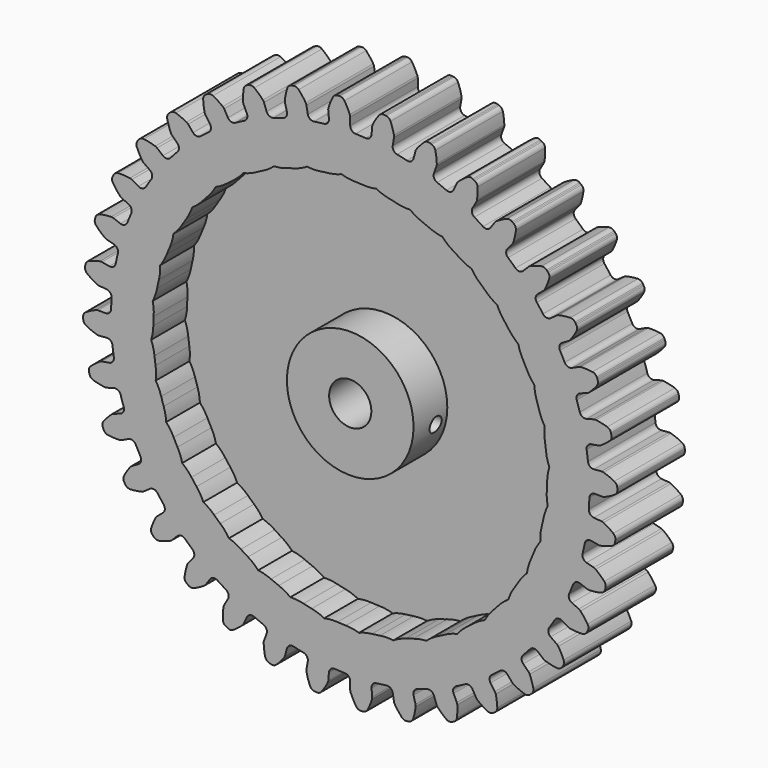
from build123d import *

# Parameters (mm, degrees)
F1_DEPTH = 12.7
F2_R     = 3.175
F3_DEPTH = 12.701
F4_T     = -6.35
F6_R     = 1.1303
F7_DEPTH = 8.255


with BuildPart() as f1:
    # F0 (on Front) → F1 (new body)
    with BuildSketch(Plane.XZ):
        with BuildLine():
            ThreePointArc((-3.2072943404, 36.659542061), (-3.3913727286, 36.0640986116), (-3.9392813158, 35.7670566373))
            ThreePointArc((-3.9392813158, 35.7670566373), (-4.6967674834, 35.6754909284), (-5.452141885, 35.5678847648))
            ThreePointArc((-5.452141885, 35.5678847648), (-6.05826106, 35.712996102), (-6.3901792342, 36.2405073152))
            Line((-6.3901792342, 36.2405073152), (-6.5887563202, 37.3666939325))
            ThreePointArc((-6.5887563202, 37.3666939325), (-6.631104961, 37.519337619), (-6.7018302996, 37.6610818565))
            ThreePointArc((-6.7018302996, 37.6610818565), (-7.1997392291, 38.3812881092), (-7.7616778289, 39.0527308532))
            ThreePointArc((-7.7616778289, 39.0527308532), (-8.1157636955, 39.2798560222), (-8.5357954873, 39.3030063397))
            Line((-8.5357954873, 39.3030063397), (-8.7055375371, 39.2681421975))
            Line((-8.7055375371, 39.2681421975), (-8.8741103018, 39.228003751))
            ThreePointArc((-8.8741103018, 39.228003751), (-9.2450046386, 39.0295093323), (-9.4699281726, 38.6740208695))
            ThreePointArc((-9.4699281726, 38.6740208695), (-9.6954535361, 37.8280015678), (-9.8423399615, 36.9648476265))
            ThreePointArc((-9.8423399615, 36.9648476265), (-9.8465351834, 36.8064939006), (-9.8204060769, 36.65025443))
            Line((-9.8204060769, 36.65025443), (-9.5244310056, 35.5456604261))
            ThreePointArc((-9.5244310056, 35.5456604261), (-9.6023151596, 34.927298224), (-10.0903189867, 34.539625657))
            ThreePointArc((-10.0903189867, 34.539625657), (-10.8203970188, 34.3179149444), (-11.5456099717, 34.0807741719))
            ThreePointArc((-11.5456099717, 34.0807741719), (-12.1677191538, 34.1184294516), (-12.586196106, 34.5802895981))
            Line((-12.586196106, 34.5802895981), (-12.9773166137, 35.6548843611))
            ThreePointArc((-12.9773166137, 35.6548843611), (-13.0455281814, 35.7978552827), (-13.1397926718, 35.9251647806))
            ThreePointArc((-13.1397926718, 35.9251647806), (-13.7551997492, 36.5479685037), (-14.4251960478, 37.1116309099))
            ThreePointArc((-14.4251960478, 37.1116309099), (-14.8133424262, 37.2738191717), (-15.2310130017, 37.2236800287))
            Line((-15.2310130017, 37.2236800287), (-15.3921221936, 37.1598701535))
            Line((-15.3921221936, 37.1598701535), (-15.5511639912, 37.0910691469))
            ThreePointArc((-15.5511639912, 37.0910691469), (-15.8819554155, 36.8311851787), (-16.0417319319, 36.4420398226))
            ThreePointArc((-16.0417319319, 36.4420398226), (-16.1169213484, 35.5697113868), (-16.11169113, 34.6941641332))
            ThreePointArc((-16.11169113, 34.6941641332), (-16.0883247811, 34.5374876636), (-16.0354619351, 34.3881590933))
            Line((-16.0354619351, 34.3881590933), (-15.5521726543, 33.3517418862))
            ThreePointArc((-15.5521726543, 33.3517418862), (-15.5214961034, 32.7292495539), (-15.9347674211, 32.262725629))
            ThreePointArc((-15.9347674211, 32.262725629), (-16.6152542662, 31.9176064805), (-17.2882705419, 31.5581365015))
            ThreePointArc((-17.2882705419, 31.5581365015), (-17.9074672583, 31.4871915871), (-18.3997877781, 31.8693672801))
            Line((-18.3997877781, 31.8693672801), (-18.9715677086, 32.8597191706))
            ThreePointArc((-18.9715677086, 32.8597191706), (-19.0635696294, 32.9886732282), (-19.1785090927, 33.0976797518))
            ThreePointArc((-19.1785090927, 33.0976797518), (-19.8927154853, 33.6041573694), (-20.6504119844, 34.0429128408))
            ThreePointArc((-20.6504119844, 34.0429128408), (-21.0608252432, 34.1352361872), (-21.4634438933, 34.0133310361))
            Line((-21.4634438933, 34.0133310361), (-21.6110250061, 33.9225142588))
            Line((-21.6110250061, 33.9225142588), (-21.7557034319, 33.8271411757))
            ThreePointArc((-21.7557034319, 33.8271411757), (-22.0363410137, 33.5137641009), (-22.126115784, 33.1027858363))
            ThreePointArc((-22.126115784, 33.1027858363), (-22.048684661, 32.2306535243), (-21.8914967163, 31.3693160188))
            ThreePointArc((-21.8914967163, 31.3693160188), (-21.8412787714, 31.2190773407), (-21.7632883966, 31.0811969438))
            Line((-21.7632883966, 31.0811969438), (-21.1073694067, 30.1444475458))
            ThreePointArc((-21.1073694067, 30.1444475458), (-20.9690642425, 29.5367391979), (-21.2950460108, 29.0055390085))
            ThreePointArc((-21.2950460108, 29.0055390085), (-21.9052654205, 28.5474976948), (-22.5056357599, 28.0766208227))
            ThreePointArc((-22.5056357599, 28.0766208227), (-23.1031060317, 27.8992313396), (-23.6543112092, 28.1901103639))
            Line((-23.6543112092, 28.1901103639), (-24.3893773189, 29.0661280409))
            ThreePointArc((-24.3893773189, 29.0661280409), (-24.5023741609, 29.1771470308), (-24.6344962196, 29.2645384719))
            ThreePointArc((-24.6344962196, 29.2645384719), (-25.4258011276, 29.639300918), (-26.2481756024, 29.9398180916))
            ThreePointArc((-26.2481756024, 29.9398180916), (-26.6683855425, 29.9594713245), (-27.0437189033, 29.7695041916))
            Line((-27.0437189033, 29.7695041916), (-27.1732877594, 29.6544399339))
            Line((-27.1732877594, 29.6544399339), (-27.2992068328, 29.5353926372))
            ThreePointArc((-27.2992068328, 29.5353926372), (-27.5211635412, 29.1780442597), (-27.5382088043, 28.7577204532))
            ThreePointArc((-27.5382088043, 28.7577204532), (-27.3105098474, 27.9122835641), (-27.0061402526, 27.0913271108))
            ThreePointArc((-27.0061402526, 27.0913271108), (-26.9305965584, 26.9520911504), (-26.8298483531, 26.8298483531))
            Line((-26.8298483531, 26.8298483531), (-26.0212294205, 26.0212294205))
            ThreePointArc((-26.0212294205, 26.0212294205), (-25.7794979753, 25.4467699677), (-26.0082854033, 24.8670337628))
            ThreePointArc((-26.0082854033, 24.8670337628), (-26.5296961696, 24.3099876374), (-27.0391786237, 23.7420112277))
            ThreePointArc((-27.0391786237, 23.7420112277), (-27.5967686191, 23.4635670654), (-28.1901103639, 23.6543112092))
            Line((-28.1901103639, 23.6543112092), (-29.0661280409, 24.3893773189))
            ThreePointArc((-29.0661280409, 24.3893773189), (-29.1966864522, 24.4790879851), (-29.3419766445, 24.5422089992))
            ThreePointArc((-29.3419766445, 24.5422089992), (-30.1863366687, 24.7738693063), (-31.0484016869, 24.9270171199))
            ThreePointArc((-31.0484016869, 24.9270171199), (-31.4656404419, 24.8734030857), (-31.8022841992, 24.6211460263))
            Line((-31.8022841992, 24.6211460263), (-31.9099039146, 24.4853304575))
            Line((-31.9099039146, 24.4853304575), (-32.0132376482, 24.3462261391))
            ThreePointArc((-32.0132376482, 24.3462261391), (-32.1697694409, 23.9557643085), (-32.1135672851, 23.5388662862))
            ThreePointArc((-32.1135672851, 23.5388662862), (-31.7425190119, 22.745812992), (-31.3002158831, 21.9901819374))
            ThreePointArc((-31.3002158831, 21.9901819374), (-31.2016417966, 21.866179309), (-31.0811969438, 21.7632883966))
            Line((-31.0811969438, 21.7632883966), (-30.1444475458, 21.1073694067))
            ThreePointArc((-30.1444475458, 21.1073694067), (-29.8066347073, 20.5836135088), (-29.9312762046, 19.9729562795))
            ThreePointArc((-29.9312762046, 19.9729562795), (-30.3480355252, 19.333830907), (-30.7511497275, 18.6860126355))
            ThreePointArc((-30.7511497275, 18.6860126355), (-31.2519173567, 18.3149741791), (-31.8693672801, 18.3997877781))
            Line((-31.8693672801, 18.3997877781), (-32.8597191706, 18.9715677087))
            ThreePointArc((-32.8597191706, 18.9715677087), (-33.0038722, 19.0372442381), (-33.1579159569, 19.074176925))
            ThreePointArc((-33.1579159569, 19.074176925), (-34.0296756452, 19.155696212), (-34.9052377975, 19.1568213468))
            ThreePointArc((-34.9052377975, 19.1568213468), (-35.3068277789, 19.0315690807), (-35.5945531824, 18.7246867979))
            Line((-35.5945531824, 18.7246867979), (-35.6769537865, 18.5722466053))
            Line((-35.6769537865, 18.5722466053), (-35.7545624371, 18.4173118796))
            ThreePointArc((-35.7545624371, 18.4173118796), (-35.8409131748, 18.0056005809), (-35.7131712741, 17.6047955783))
            ThreePointArc((-35.7131712741, 17.6047955783), (-35.2100477986, 16.8882224022), (-34.6432502926, 16.2208762135))
            ThreePointArc((-34.6432502926, 16.2208762135), (-34.5246409375, 16.1158746741), (-34.3881590933, 16.0354619351))
            Line((-34.3881590933, 16.0354619351), (-33.3517418862, 15.5521726543))
            ThreePointArc((-33.3517418862, 15.5521726543), (-32.9281119265, 15.0950343691), (-32.9448203244, 14.4720106265))
            ThreePointArc((-32.9448203244, 14.4720106265), (-33.2442651782, 13.7702255079), (-33.5287627077, 13.062249005))
            ThreePointArc((-33.5287627077, 13.062249005), (-33.9574923996, 12.6098900703), (-34.5802895981, 12.586196106))
            Line((-34.5802895981, 12.586196106), (-35.6548843611, 12.9773166137))
            ThreePointArc((-35.6548843611, 12.9773166137), (-35.8082519917, 13.0169634582), (-35.9663687716, 13.0265856369))
            ThreePointArc((-35.9663687716, 13.0265856369), (-36.8390401471, 12.9554869816), (-37.7014959204, 12.8045552508))
            ThreePointArc((-37.7014959204, 12.8045552508), (-38.0752350199, 12.6114704797), (-38.3052996789, 12.2592874363))
            Line((-38.3052996789, 12.2592874363), (-38.359977471, 12.094854438))
            Line((-38.359977471, 12.094854438), (-38.409502939, 11.9287969182))
            ThreePointArc((-38.409502939, 11.9287969182), (-38.4230488983, 11.508345791), (-38.2276486258, 11.1358120652))
            ThreePointArc((-38.2276486258, 11.1358120652), (-37.6077371002, 10.5174917204), (-36.9336670723, 9.9587073739))
            ThreePointArc((-36.9336670723, 9.9587073739), (-36.7986263339, 9.8758973422), (-36.65025443, 9.8204060769))
            Line((-36.65025443, 9.8204060769), (-35.5456604261, 9.5244310056))
            ThreePointArc((-35.5456604261, 9.5244310056), (-35.0490851273, 9.1478002487), (-34.9573527495, 8.5313402537))
            ThreePointArc((-34.9573527495, 8.5313402537), (-35.1303846562, 7.7882187749), (-35.2876211994, 7.0415955482))
            ThreePointArc((-35.2876211994, 7.0415955482), (-35.6312862192, 6.5216608325), (-36.2405073152, 6.3901792342))
            Line((-36.2405073152, 6.3901792342), (-37.3666939325, 6.5887563202))
            ThreePointArc((-37.3666939325, 6.5887563202), (-37.5246161665, 6.6011688305), (-37.682001671, 6.583188136))
            ThreePointArc((-37.682001671, 6.583188136), (-38.5290690555, 6.361631835), (-39.3522131677, 6.063229223))
            ThreePointArc((-39.3522131677, 6.063229223), (-39.6867455119, 5.8081787298), (-39.852159028, 5.4213958295))
            Line((-39.852159028, 5.4213958295), (-39.8774526511, 5.2499662389))
            Line((-39.8774526511, 5.2499662389), (-39.8973901303, 5.0778314987))
            ThreePointArc((-39.8973901303, 5.0778314987), (-39.8377197239, 4.6614157378), (-39.5805982181, 4.3284725376))
            ThreePointArc((-39.5805982181, 4.3284725376), (-38.8627343404, 3.8271923749), (-38.1018730674, 3.3939482501))
            ThreePointArc((-38.1018730674, 3.3939482501), (-37.9545040901, 3.335845867), (-37.7987503317, 3.3069621495))
            Line((-37.7987503317, 3.3069621495), (-36.659542061, 3.2072943404))
            ThreePointArc((-36.659542061, 3.2072943404), (-36.1051096122, 2.9226148466), (-35.9077237006, 2.3314494244))
            ThreePointArc((-35.9077237006, 2.3314494244), (-35.9490851733, 1.5695709554), (-35.9742831774, 0.806986774))
            ThreePointArc((-35.9742831774, 0.806986774), (-36.2224414374, 0.2352742305), (-36.7995755561, 0))
            Line((-36.7995755561, 0), (-37.9431354173, 0))
            ThreePointArc((-37.9431354173, 0), (-38.1008138675, -0.0151989718), (-38.2526860177, -0.0602362051))
            ThreePointArc((-38.2526860177, -0.0602362051), (-39.0484116973, -0.4255182758), (-39.8072333311, -0.8623249567))
            ThreePointArc((-39.8072333311, -0.8623249567), (-40.0923943239, -1.1715915916), (-40.1881306913, -1.5812221463))
            Line((-40.1881306913, -1.5812221463), (-40.1832716114, -1.7544395277))
            Line((-40.1832716114, -1.7544395277), (-40.1730153115, -1.9274212614))
            ThreePointArc((-40.1730153115, -1.9274212614), (-40.0419415947, -2.3271490739), (-39.7309113623, -2.6103854378))
            ThreePointArc((-39.7309113623, -2.6103854378), (-38.9369070632, -2.9793942743), (-38.1123729298, -3.2739342738))
            ThreePointArc((-38.1123729298, -3.2739342738), (-37.9571534454, -3.3055635968), (-37.7987503317, -3.3069621495))
            Line((-37.7987503317, -3.3069621495), (-36.659542061, -3.2072943404))
            ThreePointArc((-36.659542061, -3.2072943404), (-36.0640986116, -3.3913727286), (-35.7670566373, -3.9392813158))
            ThreePointArc((-35.7670566373, -3.9392813158), (-35.6754909284, -4.6967674834), (-35.5678847648, -5.452141885))
            ThreePointArc((-35.5678847648, -5.452141885), (-35.712996102, -6.05826106), (-36.2405073152, -6.3901792342))
            Line((-36.2405073152, -6.3901792342), (-37.3666939325, -6.5887563202))
            ThreePointArc((-37.3666939325, -6.5887563202), (-37.519337619, -6.631104961), (-37.6610818565, -6.7018302996))
            ThreePointArc((-37.6610818565, -6.7018302996), (-38.3812881092, -7.1997392291), (-39.0527308532, -7.7616778289))
            ThreePointArc((-39.0527308532, -7.7616778289), (-39.2798560222, -8.1157636955), (-39.3030063397, -8.5357954873))
            Line((-39.3030063397, -8.5357954873), (-39.2681421975, -8.7055375371))
            Line((-39.2681421975, -8.7055375371), (-39.228003751, -8.8741103018))
            ThreePointArc((-39.228003751, -8.8741103018), (-39.0295093323, -9.2450046386), (-38.6740208695, -9.4699281726))
            ThreePointArc((-38.6740208695, -9.4699281726), (-37.8280015678, -9.6954535361), (-36.9648476265, -9.8423399615))
            ThreePointArc((-36.9648476265, -9.8423399615), (-36.8064939006, -9.8465351834), (-36.65025443, -9.8204060769))
            Line((-36.65025443, -9.8204060769), (-35.5456604261, -9.5244310056))
            ThreePointArc((-35.5456604261, -9.5244310056), (-34.927298224, -9.6023151596), (-34.539625657, -10.0903189867))
            ThreePointArc((-34.539625657, -10.0903189867), (-34.3179149444, -10.8203970188), (-34.0807741719, -11.5456099717))
            ThreePointArc((-34.0807741719, -11.5456099717), (-34.1184294516, -12.1677191538), (-34.5802895981, -12.586196106))
            Line((-34.5802895981, -12.586196106), (-35.6548843611, -12.9773166137))
            ThreePointArc((-35.6548843611, -12.9773166137), (-35.7978552827, -13.0455281814), (-35.9251647806, -13.1397926718))
            ThreePointArc((-35.9251647806, -13.1397926718), (-36.5479685037, -13.7551997492), (-37.1116309099, -14.4251960478))
            ThreePointArc((-37.1116309099, -14.4251960478), (-37.2738191717, -14.8133424262), (-37.2236800287, -15.2310130017))
            Line((-37.2236800287, -15.2310130017), (-37.1598701535, -15.3921221936))
            Line((-37.1598701535, -15.3921221936), (-37.0910691469, -15.5511639912))
            ThreePointArc((-37.0910691469, -15.5511639912), (-36.8311851787, -15.8819554155), (-36.4420398226, -16.0417319319))
            ThreePointArc((-36.4420398226, -16.0417319319), (-35.5697113868, -16.1169213484), (-34.6941641332, -16.11169113))
            ThreePointArc((-34.6941641332, -16.11169113), (-34.5374876636, -16.0883247811), (-34.3881590933, -16.0354619351))
            Line((-34.3881590933, -16.0354619351), (-33.3517418862, -15.5521726543))
            ThreePointArc((-33.3517418862, -15.5521726543), (-32.7292495539, -15.5214961034), (-32.262725629, -15.9347674211))
            ThreePointArc((-32.262725629, -15.9347674211), (-31.9176064805, -16.6152542662), (-31.5581365015, -17.2882705419))
            ThreePointArc((-31.5581365015, -17.2882705419), (-31.4871915871, -17.9074672583), (-31.8693672801, -18.3997877781))
            Line((-31.8693672801, -18.3997877781), (-32.8597191706, -18.9715677086))
            ThreePointArc((-32.8597191706, -18.9715677086), (-32.9886732282, -19.0635696294), (-33.0976797518, -19.1785090927))
            ThreePointArc((-33.0976797518, -19.1785090927), (-33.6041573694, -19.8927154853), (-34.0429128408, -20.6504119844))
            ThreePointArc((-34.0429128408, -20.6504119844), (-34.1352361872, -21.0608252432), (-34.0133310361, -21.4634438933))
            Line((-34.0133310361, -21.4634438933), (-33.9225142588, -21.6110250061))
            Line((-33.9225142588, -21.6110250061), (-33.8271411757, -21.7557034319))
            ThreePointArc((-33.8271411757, -21.7557034319), (-33.5137641009, -22.0363410137), (-33.1027858363, -22.126115784))
            ThreePointArc((-33.1027858363, -22.126115784), (-32.2306535243, -22.048684661), (-31.3693160188, -21.8914967163))
            ThreePointArc((-31.3693160188, -21.8914967163), (-31.2190773407, -21.8412787714), (-31.0811969438, -21.7632883966))
            Line((-31.0811969438, -21.7632883966), (-30.1444475458, -21.1073694067))
            ThreePointArc((-30.1444475458, -21.1073694067), (-29.5367391979, -20.9690642425), (-29.0055390085, -21.2950460108))
            ThreePointArc((-29.0055390085, -21.2950460108), (-28.5474976948, -21.9052654205), (-28.0766208227, -22.5056357599))
            ThreePointArc((-28.0766208227, -22.5056357599), (-27.8992313396, -23.1031060317), (-28.1901103639, -23.6543112092))
            Line((-28.1901103639, -23.6543112092), (-29.0661280409, -24.3893773189))
            ThreePointArc((-29.0661280409, -24.3893773189), (-29.1771470308, -24.5023741609), (-29.2645384719, -24.6344962196))
            ThreePointArc((-29.2645384719, -24.6344962196), (-29.639300918, -25.4258011276), (-29.9398180916, -26.2481756024))
            ThreePointArc((-29.9398180916, -26.2481756024), (-29.9594713245, -26.6683855425), (-29.7695041916, -27.0437189033))
            Line((-29.7695041916, -27.0437189033), (-29.6544399339, -27.1732877594))
            Line((-29.6544399339, -27.1732877594), (-29.5353926372, -27.2992068328))
            ThreePointArc((-29.5353926372, -27.2992068328), (-29.1780442597, -27.5211635412), (-28.7577204532, -27.5382088043))
            ThreePointArc((-28.7577204532, -27.5382088043), (-27.9122835641, -27.3105098474), (-27.0913271108, -27.0061402526))
            ThreePointArc((-27.0913271108, -27.0061402526), (-26.9520911504, -26.9305965584), (-26.8298483531, -26.8298483531))
            Line((-26.8298483531, -26.8298483531), (-26.0212294205, -26.0212294205))
            ThreePointArc((-26.0212294205, -26.0212294205), (-25.4467699677, -25.7794979753), (-24.8670337628, -26.0082854033))
            ThreePointArc((-24.8670337628, -26.0082854033), (-24.3099876374, -26.5296961696), (-23.7420112277, -27.0391786237))
            ThreePointArc((-23.7420112277, -27.0391786237), (-23.4635670654, -27.5967686191), (-23.6543112092, -28.1901103639))
            Line((-23.6543112092, -28.1901103639), (-24.3893773189, -29.0661280409))
            ThreePointArc((-24.3893773189, -29.0661280409), (-24.4790879851, -29.1966864522), (-24.5422089992, -29.3419766445))
            ThreePointArc((-24.5422089992, -29.3419766445), (-24.7738693063, -30.1863366687), (-24.9270171199, -31.0484016869))
            ThreePointArc((-24.9270171199, -31.0484016869), (-24.8734030857, -31.4656404419), (-24.6211460263, -31.8022841992))
            Line((-24.6211460263, -31.8022841992), (-24.4853304575, -31.9099039146))
            Line((-24.4853304575, -31.9099039146), (-24.3462261391, -32.0132376482))
            ThreePointArc((-24.3462261391, -32.0132376482), (-23.9557643085, -32.1697694409), (-23.5388662862, -32.1135672851))
            ThreePointArc((-23.5388662862, -32.1135672851), (-22.745812992, -31.7425190119), (-21.9901819374, -31.3002158831))
            ThreePointArc((-21.9901819374, -31.3002158831), (-21.866179309, -31.2016417966), (-21.7632883966, -31.0811969438))
            Line((-21.7632883966, -31.0811969438), (-21.1073694067, -30.1444475458))
            ThreePointArc((-21.1073694067, -30.1444475458), (-20.5836135088, -29.8066347073), (-19.9729562795, -29.9312762046))
            ThreePointArc((-19.9729562795, -29.9312762046), (-19.333830907, -30.3480355252), (-18.6860126355, -30.7511497275))
            ThreePointArc((-18.6860126355, -30.7511497275), (-18.3149741791, -31.2519173567), (-18.3997877781, -31.8693672801))
            Line((-18.3997877781, -31.8693672801), (-18.9715677086, -32.8597191706))
            ThreePointArc((-18.9715677087, -32.8597191706), (-19.0372442381, -33.0038722), (-19.074176925, -33.1579159569))
            ThreePointArc((-19.074176925, -33.1579159569), (-19.155696212, -34.0296756452), (-19.1568213468, -34.9052377975))
            ThreePointArc((-19.1568213468, -34.9052377975), (-19.0315690807, -35.3068277789), (-18.7246867979, -35.5945531824))
            Line((-18.7246867979, -35.5945531824), (-18.5722466053, -35.6769537865))
            Line((-18.5722466053, -35.6769537865), (-18.4173118796, -35.7545624371))
            ThreePointArc((-18.4173118796, -35.7545624371), (-18.0056005809, -35.8409131748), (-17.6047955783, -35.7131712741))
            ThreePointArc((-17.6047955783, -35.7131712741), (-16.8882224022, -35.2100477986), (-16.2208762135, -34.6432502926))
            ThreePointArc((-16.2208762135, -34.6432502926), (-16.1158746741, -34.5246409375), (-16.0354619351, -34.3881590933))
            Line((-16.0354619351, -34.3881590933), (-15.5521726543, -33.3517418862))
            ThreePointArc((-15.5521726543, -33.3517418862), (-15.0950343691, -32.9281119265), (-14.4720106265, -32.9448203244))
            ThreePointArc((-14.4720106265, -32.9448203244), (-13.7702255079, -33.2442651782), (-13.062249005, -33.5287627077))
            ThreePointArc((-13.062249005, -33.5287627077), (-12.6098900703, -33.9574923996), (-12.586196106, -34.5802895981))
            Line((-12.586196106, -34.5802895981), (-12.9773166137, -35.6548843611))
            ThreePointArc((-12.9773166137, -35.6548843611), (-13.0169634582, -35.8082519917), (-13.0265856369, -35.9663687716))
            ThreePointArc((-13.0265856369, -35.9663687716), (-12.9554869816, -36.8390401471), (-12.8045552508, -37.7014959204))
            ThreePointArc((-12.8045552508, -37.7014959204), (-12.6114704797, -38.0752350199), (-12.2592874363, -38.3052996789))
            Line((-12.2592874363, -38.3052996789), (-12.094854438, -38.359977471))
            Line((-12.094854438, -38.359977471), (-11.9287969182, -38.409502939))
            ThreePointArc((-11.9287969182, -38.409502939), (-11.508345791, -38.4230488983), (-11.1358120652, -38.2276486258))
            ThreePointArc((-11.1358120652, -38.2276486258), (-10.5174917204, -37.6077371002), (-9.9587073739, -36.9336670723))
            ThreePointArc((-9.9587073739, -36.9336670723), (-9.8758973422, -36.7986263339), (-9.8204060769, -36.65025443))
            Line((-9.8204060769, -36.65025443), (-9.5244310056, -35.5456604261))
            ThreePointArc((-9.5244310056, -35.5456604261), (-9.1478002487, -35.0490851273), (-8.5313402537, -34.9573527495))
            ThreePointArc((-8.5313402537, -34.9573527495), (-7.7882187749, -35.1303846562), (-7.0415955482, -35.2876211994))
            ThreePointArc((-7.0415955482, -35.2876211994), (-6.5216608325, -35.6312862192), (-6.3901792342, -36.2405073152))
            Line((-6.3901792342, -36.2405073152), (-6.5887563202, -37.3666939325))
            ThreePointArc((-6.5887563202, -37.3666939325), (-6.6011688305, -37.5246161665), (-6.583188136, -37.682001671))
            ThreePointArc((-6.583188136, -37.682001671), (-6.361631835, -38.5290690555), (-6.063229223, -39.3522131677))
            ThreePointArc((-6.063229223, -39.3522131677), (-5.8081787298, -39.6867455119), (-5.4213958295, -39.852159028))
            Line((-5.4213958295, -39.852159028), (-5.2499662389, -39.8774526511))
            Line((-5.2499662389, -39.8774526511), (-5.0778314987, -39.8973901303))
            ThreePointArc((-5.0778314987, -39.8973901303), (-4.6614157378, -39.8377197239), (-4.3284725376, -39.5805982181))
            ThreePointArc((-4.3284725376, -39.5805982181), (-3.8271923749, -38.8627343404), (-3.3939482501, -38.1018730674))
            ThreePointArc((-3.3939482501, -38.1018730674), (-3.335845867, -37.9545040901), (-3.3069621495, -37.7987503317))
            Line((-3.3069621495, -37.7987503317), (-3.2072943404, -36.659542061))
            ThreePointArc((-3.2072943404, -36.659542061), (-2.9226148466, -36.1051096122), (-2.3314494244, -35.9077237006))
            ThreePointArc((-2.3314494244, -35.9077237006), (-1.5695709554, -35.9490851733), (-0.806986774, -35.9742831774))
            ThreePointArc((-0.806986774, -35.9742831774), (-0.2352742305, -36.2224414374), (0, -36.7995755561))
            Line((0, -36.7995755561), (0, -37.9431354173))
            ThreePointArc((0, -37.9431354173), (0.0151989718, -38.1008138675), (0.0602362051, -38.2526860177))
            ThreePointArc((0.0602362051, -38.2526860177), (0.4255182758, -39.0484116973), (0.8623249567, -39.8072333311))
            ThreePointArc((0.8623249567, -39.8072333311), (1.1715915916, -40.0923943239), (1.5812221463, -40.1881306913))
            Line((1.5812221463, -40.1881306913), (1.7544395277, -40.1832716114))
            Line((1.7544395277, -40.1832716114), (1.9274212614, -40.1730153115))
            ThreePointArc((1.9274212614, -40.1730153115), (2.3271490739, -40.0419415947), (2.6103854378, -39.7309113623))
            ThreePointArc((2.6103854378, -39.7309113623), (2.9793942743, -38.9369070632), (3.2739342738, -38.1123729298))
            ThreePointArc((3.2739342738, -38.1123729298), (3.3055635968, -37.9571534454), (3.3069621495, -37.7987503317))
            Line((3.3069621495, -37.7987503317), (3.2072943404, -36.659542061))
            ThreePointArc((3.2072943404, -36.659542061), (3.3913727286, -36.0640986116), (3.9392813158, -35.7670566373))
            ThreePointArc((3.9392813158, -35.7670566373), (4.6967674834, -35.6754909284), (5.452141885, -35.5678847648))
            ThreePointArc((5.452141885, -35.5678847648), (6.05826106, -35.712996102), (6.3901792342, -36.2405073152))
            Line((6.3901792342, -36.2405073152), (6.5887563202, -37.3666939325))
            ThreePointArc((6.5887563202, -37.3666939325), (6.631104961, -37.519337619), (6.7018302996, -37.6610818565))
            ThreePointArc((6.7018302996, -37.6610818565), (7.1997392291, -38.3812881092), (7.7616778289, -39.0527308532))
            ThreePointArc((7.7616778289, -39.0527308532), (8.1157636955, -39.2798560222), (8.5357954873, -39.3030063397))
            Line((8.5357954873, -39.3030063397), (8.7055375371, -39.2681421975))
            Line((8.7055375371, -39.2681421975), (8.8741103018, -39.228003751))
            ThreePointArc((8.8741103018, -39.228003751), (9.2450046386, -39.0295093323), (9.4699281726, -38.6740208695))
            ThreePointArc((9.4699281726, -38.6740208695), (9.6954535361, -37.8280015678), (9.8423399615, -36.9648476265))
            ThreePointArc((9.8423399615, -36.9648476265), (9.8465351834, -36.8064939006), (9.8204060769, -36.65025443))
            Line((9.8204060769, -36.65025443), (9.5244310056, -35.5456604261))
            ThreePointArc((9.5244310056, -35.5456604261), (9.6023151596, -34.927298224), (10.0903189867, -34.539625657))
            ThreePointArc((10.0903189867, -34.539625657), (10.8203970188, -34.3179149444), (11.5456099717, -34.0807741719))
            ThreePointArc((11.5456099717, -34.0807741719), (12.1677191538, -34.1184294516), (12.586196106, -34.5802895981))
            Line((12.586196106, -34.5802895981), (12.9773166137, -35.6548843611))
            ThreePointArc((12.9773166137, -35.6548843611), (13.0455281814, -35.7978552827), (13.1397926718, -35.9251647806))
            ThreePointArc((13.1397926718, -35.9251647806), (13.7551997492, -36.5479685037), (14.4251960478, -37.1116309099))
            ThreePointArc((14.4251960478, -37.1116309099), (14.8133424262, -37.2738191717), (15.2310130017, -37.2236800287))
            Line((15.2310130017, -37.2236800287), (15.3921221936, -37.1598701535))
            Line((15.3921221936, -37.1598701535), (15.5511639912, -37.0910691469))
            ThreePointArc((15.5511639912, -37.0910691469), (15.8819554155, -36.8311851787), (16.0417319319, -36.4420398226))
            ThreePointArc((16.0417319319, -36.4420398226), (16.1169213484, -35.5697113868), (16.11169113, -34.6941641332))
            ThreePointArc((16.11169113, -34.6941641332), (16.0883247811, -34.5374876636), (16.0354619351, -34.3881590933))
            Line((16.0354619351, -34.3881590933), (15.5521726543, -33.3517418862))
            ThreePointArc((15.5521726543, -33.3517418862), (15.5214961034, -32.7292495539), (15.9347674211, -32.262725629))
            ThreePointArc((15.9347674211, -32.262725629), (16.6152542662, -31.9176064805), (17.2882705419, -31.5581365015))
            ThreePointArc((17.2882705419, -31.5581365015), (17.9074672583, -31.4871915871), (18.3997877781, -31.8693672801))
            Line((18.3997877781, -31.8693672801), (18.9715677086, -32.8597191706))
            ThreePointArc((18.9715677087, -32.8597191706), (19.0635696294, -32.9886732282), (19.1785090927, -33.0976797518))
            ThreePointArc((19.1785090927, -33.0976797518), (19.8927154853, -33.6041573694), (20.6504119844, -34.0429128408))
            ThreePointArc((20.6504119844, -34.0429128408), (21.0608252432, -34.1352361872), (21.4634438933, -34.0133310361))
            Line((21.4634438933, -34.0133310361), (21.6110250061, -33.9225142588))
            Line((21.6110250061, -33.9225142588), (21.7557034319, -33.8271411757))
            ThreePointArc((21.7557034319, -33.8271411757), (22.0363410137, -33.5137641009), (22.126115784, -33.1027858363))
            ThreePointArc((22.126115784, -33.1027858363), (22.048684661, -32.2306535243), (21.8914967163, -31.3693160188))
            ThreePointArc((21.8914967163, -31.3693160188), (21.8412787714, -31.2190773407), (21.7632883966, -31.0811969438))
            Line((21.7632883966, -31.0811969438), (21.1073694067, -30.1444475458))
            ThreePointArc((21.1073694067, -30.1444475458), (20.9690642425, -29.5367391979), (21.2950460108, -29.0055390085))
            ThreePointArc((21.2950460108, -29.0055390085), (21.9052654205, -28.5474976948), (22.5056357599, -28.0766208227))
            ThreePointArc((22.5056357599, -28.0766208227), (23.1031060317, -27.8992313396), (23.6543112092, -28.1901103639))
            Line((23.6543112092, -28.1901103639), (24.3893773189, -29.0661280409))
            ThreePointArc((24.3893773189, -29.0661280409), (24.5023741609, -29.1771470308), (24.6344962196, -29.2645384719))
            ThreePointArc((24.6344962196, -29.2645384719), (25.4258011276, -29.639300918), (26.2481756024, -29.9398180916))
            ThreePointArc((26.2481756024, -29.9398180916), (26.6683855425, -29.9594713245), (27.0437189033, -29.7695041916))
            Line((27.0437189033, -29.7695041916), (27.1732877594, -29.6544399339))
            Line((27.1732877594, -29.6544399339), (27.2992068328, -29.5353926372))
            ThreePointArc((27.2992068328, -29.5353926372), (27.5211635412, -29.1780442597), (27.5382088043, -28.7577204532))
            ThreePointArc((27.5382088043, -28.7577204532), (27.3105098474, -27.9122835641), (27.0061402526, -27.0913271108))
            ThreePointArc((27.0061402526, -27.0913271108), (26.9305965584, -26.9520911504), (26.8298483531, -26.8298483531))
            Line((26.8298483531, -26.8298483531), (26.0212294205, -26.0212294205))
            ThreePointArc((26.0212294205, -26.0212294205), (25.7794979753, -25.4467699677), (26.0082854033, -24.8670337628))
            ThreePointArc((26.0082854033, -24.8670337628), (26.5296961696, -24.3099876374), (27.0391786237, -23.7420112277))
            ThreePointArc((27.0391786237, -23.7420112277), (27.5967686191, -23.4635670654), (28.1901103639, -23.6543112092))
            Line((28.1901103639, -23.6543112092), (29.0661280409, -24.3893773189))
            ThreePointArc((29.0661280409, -24.3893773189), (29.1966864522, -24.4790879851), (29.3419766445, -24.5422089992))
            ThreePointArc((29.3419766445, -24.5422089992), (30.1863366687, -24.7738693063), (31.0484016869, -24.9270171199))
            ThreePointArc((31.0484016869, -24.9270171199), (31.4656404419, -24.8734030857), (31.8022841992, -24.6211460263))
            Line((31.8022841992, -24.6211460263), (31.9099039146, -24.4853304575))
            Line((31.9099039146, -24.4853304575), (32.0132376482, -24.3462261391))
            ThreePointArc((32.0132376482, -24.3462261391), (32.1697694409, -23.9557643085), (32.1135672851, -23.5388662862))
            ThreePointArc((32.1135672851, -23.5388662862), (31.7425190119, -22.745812992), (31.3002158831, -21.9901819374))
            ThreePointArc((31.3002158831, -21.9901819374), (31.2016417966, -21.866179309), (31.0811969438, -21.7632883966))
            Line((31.0811969438, -21.7632883966), (30.1444475458, -21.1073694067))
            ThreePointArc((30.1444475458, -21.1073694067), (29.8066347073, -20.5836135088), (29.9312762046, -19.9729562795))
            ThreePointArc((29.9312762046, -19.9729562795), (30.3480355252, -19.333830907), (30.7511497275, -18.6860126355))
            ThreePointArc((30.7511497275, -18.6860126355), (31.2519173567, -18.3149741791), (31.8693672801, -18.3997877781))
            Line((31.8693672801, -18.3997877781), (32.8597191706, -18.9715677087))
            ThreePointArc((32.8597191706, -18.9715677087), (33.0038722, -19.0372442381), (33.1579159569, -19.074176925))
            ThreePointArc((33.1579159569, -19.074176925), (34.0296756452, -19.155696212), (34.9052377975, -19.1568213468))
            ThreePointArc((34.9052377975, -19.1568213468), (35.3068277789, -19.0315690807), (35.5945531824, -18.7246867979))
            Line((35.5945531824, -18.7246867979), (35.6769537865, -18.5722466053))
            Line((35.6769537865, -18.5722466053), (35.7545624371, -18.4173118796))
            ThreePointArc((35.7545624371, -18.4173118796), (35.8409131748, -18.0056005809), (35.7131712741, -17.6047955783))
            ThreePointArc((35.7131712741, -17.6047955783), (35.2100477986, -16.8882224022), (34.6432502926, -16.2208762135))
            ThreePointArc((34.6432502926, -16.2208762135), (34.5246409375, -16.1158746741), (34.3881590933, -16.0354619351))
            Line((34.3881590933, -16.0354619351), (33.3517418862, -15.5521726543))
            ThreePointArc((33.3517418862, -15.5521726543), (32.9281119265, -15.0950343691), (32.9448203244, -14.4720106265))
            ThreePointArc((32.9448203244, -14.4720106265), (33.2442651782, -13.7702255079), (33.5287627077, -13.062249005))
            ThreePointArc((33.5287627077, -13.062249005), (33.9574923996, -12.6098900703), (34.5802895981, -12.586196106))
            Line((34.5802895981, -12.586196106), (35.6548843611, -12.9773166137))
            ThreePointArc((35.6548843611, -12.9773166137), (35.8082519917, -13.0169634582), (35.9663687716, -13.0265856369))
            ThreePointArc((35.9663687716, -13.0265856369), (36.8390401471, -12.9554869816), (37.7014959204, -12.8045552508))
            ThreePointArc((37.7014959204, -12.8045552508), (38.0752350199, -12.6114704797), (38.3052996789, -12.2592874363))
            Line((38.3052996789, -12.2592874363), (38.359977471, -12.094854438))
            Line((38.359977471, -12.094854438), (38.409502939, -11.9287969182))
            ThreePointArc((38.409502939, -11.9287969182), (38.4230488983, -11.508345791), (38.2276486258, -11.1358120652))
            ThreePointArc((38.2276486258, -11.1358120652), (37.6077371002, -10.5174917204), (36.9336670723, -9.9587073739))
            ThreePointArc((36.9336670723, -9.9587073739), (36.7986263339, -9.8758973422), (36.65025443, -9.8204060769))
            Line((36.65025443, -9.8204060769), (35.5456604261, -9.5244310056))
            ThreePointArc((35.5456604261, -9.5244310056), (35.0490851273, -9.1478002487), (34.9573527495, -8.5313402537))
            ThreePointArc((34.9573527495, -8.5313402537), (35.1303846562, -7.7882187749), (35.2876211994, -7.0415955482))
            ThreePointArc((35.2876211994, -7.0415955482), (35.6312862192, -6.5216608325), (36.2405073152, -6.3901792342))
            Line((36.2405073152, -6.3901792342), (37.3666939325, -6.5887563202))
            ThreePointArc((37.3666939325, -6.5887563202), (37.5246161665, -6.6011688305), (37.682001671, -6.583188136))
            ThreePointArc((37.682001671, -6.583188136), (38.5290690555, -6.361631835), (39.3522131677, -6.063229223))
            ThreePointArc((39.3522131677, -6.063229223), (39.6867455119, -5.8081787298), (39.852159028, -5.4213958295))
            Line((39.852159028, -5.4213958295), (39.8774526511, -5.2499662389))
            Line((39.8774526511, -5.2499662389), (39.8973901303, -5.0778314987))
            ThreePointArc((39.8973901303, -5.0778314987), (39.8377197239, -4.6614157378), (39.5805982181, -4.3284725376))
            ThreePointArc((39.5805982181, -4.3284725376), (38.8627343404, -3.8271923749), (38.1018730674, -3.3939482501))
            ThreePointArc((38.1018730674, -3.3939482501), (37.9545040901, -3.335845867), (37.7987503317, -3.3069621495))
            Line((37.7987503317, -3.3069621495), (36.659542061, -3.2072943404))
            ThreePointArc((36.659542061, -3.2072943404), (36.1051096122, -2.9226148466), (35.9077237006, -2.3314494244))
            ThreePointArc((35.9077237006, -2.3314494244), (35.9490851733, -1.5695709554), (35.9742831774, -0.806986774))
            ThreePointArc((35.9742831774, -0.806986774), (36.2224414374, -0.2352742305), (36.7995755561, 0))
            Line((36.7995755561, 0), (37.9431354173, 0))
            ThreePointArc((37.9431354173, 0), (38.1008138675, 0.0151989718), (38.2526860177, 0.0602362051))
            ThreePointArc((38.2526860177, 0.0602362051), (39.0484116973, 0.4255182758), (39.8072333311, 0.8623249567))
            ThreePointArc((39.8072333311, 0.8623249567), (40.0923943239, 1.1715915916), (40.1881306913, 1.5812221463))
            Line((40.1881306913, 1.5812221463), (40.1832716114, 1.7544395277))
            Line((40.1832716114, 1.7544395277), (40.1730153115, 1.9274212614))
            ThreePointArc((40.1730153115, 1.9274212614), (40.0419415947, 2.3271490739), (39.7309113623, 2.6103854378))
            ThreePointArc((39.7309113623, 2.6103854378), (38.9369070632, 2.9793942743), (38.1123729298, 3.2739342738))
            ThreePointArc((38.1123729298, 3.2739342738), (37.9571534454, 3.3055635968), (37.7987503317, 3.3069621495))
            Line((37.7987503317, 3.3069621495), (36.659542061, 3.2072943404))
            ThreePointArc((36.659542061, 3.2072943404), (36.0640986116, 3.3913727286), (35.7670566373, 3.9392813158))
            ThreePointArc((35.7670566373, 3.9392813158), (35.6754909284, 4.6967674834), (35.5678847648, 5.452141885))
            ThreePointArc((35.5678847648, 5.452141885), (35.712996102, 6.05826106), (36.2405073152, 6.3901792342))
            Line((36.2405073152, 6.3901792342), (37.3666939325, 6.5887563202))
            ThreePointArc((37.3666939325, 6.5887563202), (37.519337619, 6.631104961), (37.6610818565, 6.7018302996))
            ThreePointArc((37.6610818565, 6.7018302996), (38.3812881092, 7.1997392291), (39.0527308532, 7.7616778289))
            ThreePointArc((39.0527308532, 7.7616778289), (39.2798560222, 8.1157636955), (39.3030063397, 8.5357954873))
            Line((39.3030063397, 8.5357954873), (39.2681421975, 8.7055375371))
            Line((39.2681421975, 8.7055375371), (39.228003751, 8.8741103018))
            ThreePointArc((39.228003751, 8.8741103018), (39.0295093323, 9.2450046386), (38.6740208695, 9.4699281726))
            ThreePointArc((38.6740208695, 9.4699281726), (37.8280015678, 9.6954535361), (36.9648476265, 9.8423399615))
            ThreePointArc((36.9648476265, 9.8423399615), (36.8064939006, 9.8465351834), (36.65025443, 9.8204060769))
            Line((36.65025443, 9.8204060769), (35.5456604261, 9.5244310056))
            ThreePointArc((35.5456604261, 9.5244310056), (34.927298224, 9.6023151596), (34.539625657, 10.0903189867))
            ThreePointArc((34.539625657, 10.0903189867), (34.3179149444, 10.8203970188), (34.0807741719, 11.5456099717))
            ThreePointArc((34.0807741719, 11.5456099717), (34.1184294516, 12.1677191538), (34.5802895981, 12.586196106))
            Line((34.5802895981, 12.586196106), (35.6548843611, 12.9773166137))
            ThreePointArc((35.6548843611, 12.9773166137), (35.7978552827, 13.0455281814), (35.9251647806, 13.1397926718))
            ThreePointArc((35.9251647806, 13.1397926718), (36.5479685037, 13.7551997492), (37.1116309099, 14.4251960478))
            ThreePointArc((37.1116309099, 14.4251960478), (37.2738191717, 14.8133424262), (37.2236800287, 15.2310130017))
            Line((37.2236800287, 15.2310130017), (37.1598701535, 15.3921221936))
            Line((37.1598701535, 15.3921221936), (37.0910691469, 15.5511639912))
            ThreePointArc((37.0910691469, 15.5511639912), (36.8311851787, 15.8819554155), (36.4420398226, 16.0417319319))
            ThreePointArc((36.4420398226, 16.0417319319), (35.5697113868, 16.1169213484), (34.6941641332, 16.11169113))
            ThreePointArc((34.6941641332, 16.11169113), (34.5374876636, 16.0883247811), (34.3881590933, 16.0354619351))
            Line((34.3881590933, 16.0354619351), (33.3517418862, 15.5521726543))
            ThreePointArc((33.3517418862, 15.5521726543), (32.7292495539, 15.5214961034), (32.262725629, 15.9347674211))
            ThreePointArc((32.262725629, 15.9347674211), (31.9176064805, 16.6152542662), (31.5581365015, 17.2882705419))
            ThreePointArc((31.5581365015, 17.2882705419), (31.4871915871, 17.9074672583), (31.8693672801, 18.3997877781))
            Line((31.8693672801, 18.3997877781), (32.8597191706, 18.9715677086))
            ThreePointArc((32.8597191706, 18.9715677086), (32.9886732282, 19.0635696294), (33.0976797518, 19.1785090927))
            ThreePointArc((33.0976797518, 19.1785090927), (33.6041573694, 19.8927154853), (34.0429128408, 20.6504119844))
            ThreePointArc((34.0429128408, 20.6504119844), (34.1352361872, 21.0608252432), (34.0133310361, 21.4634438933))
            Line((34.0133310361, 21.4634438933), (33.9225142588, 21.6110250061))
            Line((33.9225142588, 21.6110250061), (33.8271411757, 21.7557034319))
            ThreePointArc((33.8271411757, 21.7557034319), (33.5137641009, 22.0363410137), (33.1027858363, 22.126115784))
            ThreePointArc((33.1027858363, 22.126115784), (32.2306535243, 22.048684661), (31.3693160188, 21.8914967163))
            ThreePointArc((31.3693160188, 21.8914967163), (31.2190773407, 21.8412787714), (31.0811969438, 21.7632883966))
            Line((31.0811969438, 21.7632883966), (30.1444475458, 21.1073694067))
            ThreePointArc((30.1444475458, 21.1073694067), (29.5367391979, 20.9690642425), (29.0055390085, 21.2950460108))
            ThreePointArc((29.0055390085, 21.2950460108), (28.5474976948, 21.9052654205), (28.0766208227, 22.5056357599))
            ThreePointArc((28.0766208227, 22.5056357599), (27.8992313396, 23.1031060317), (28.1901103639, 23.6543112092))
            Line((28.1901103639, 23.6543112092), (29.0661280409, 24.3893773189))
            ThreePointArc((29.0661280409, 24.3893773189), (29.1771470308, 24.5023741609), (29.2645384719, 24.6344962196))
            ThreePointArc((29.2645384719, 24.6344962196), (29.639300918, 25.4258011276), (29.9398180916, 26.2481756024))
            ThreePointArc((29.9398180916, 26.2481756024), (29.9594713245, 26.6683855425), (29.7695041916, 27.0437189033))
            Line((29.7695041916, 27.0437189033), (29.6544399339, 27.1732877594))
            Line((29.6544399339, 27.1732877594), (29.5353926372, 27.2992068328))
            ThreePointArc((29.5353926372, 27.2992068328), (29.1780442597, 27.5211635412), (28.7577204532, 27.5382088043))
            ThreePointArc((28.7577204532, 27.5382088043), (27.9122835641, 27.3105098474), (27.0913271108, 27.0061402526))
            ThreePointArc((27.0913271108, 27.0061402526), (26.9520911504, 26.9305965584), (26.8298483531, 26.8298483531))
            Line((26.8298483531, 26.8298483531), (26.0212294205, 26.0212294205))
            ThreePointArc((26.0212294205, 26.0212294205), (25.4467699677, 25.7794979753), (24.8670337628, 26.0082854033))
            ThreePointArc((24.8670337628, 26.0082854033), (24.3099876374, 26.5296961696), (23.7420112277, 27.0391786237))
            ThreePointArc((23.7420112277, 27.0391786237), (23.4635670654, 27.5967686191), (23.6543112092, 28.1901103639))
            Line((23.6543112092, 28.1901103639), (24.3893773189, 29.0661280409))
            ThreePointArc((24.3893773189, 29.0661280409), (24.4790879851, 29.1966864522), (24.5422089992, 29.3419766445))
            ThreePointArc((24.5422089992, 29.3419766445), (24.7738693063, 30.1863366687), (24.9270171199, 31.0484016869))
            ThreePointArc((24.9270171199, 31.0484016869), (24.8734030857, 31.4656404419), (24.6211460263, 31.8022841992))
            Line((24.6211460263, 31.8022841992), (24.4853304575, 31.9099039146))
            Line((24.4853304575, 31.9099039146), (24.3462261391, 32.0132376482))
            ThreePointArc((24.3462261391, 32.0132376482), (23.9557643085, 32.1697694409), (23.5388662862, 32.1135672851))
            ThreePointArc((23.5388662862, 32.1135672851), (22.745812992, 31.7425190119), (21.9901819374, 31.3002158831))
            ThreePointArc((21.9901819374, 31.3002158831), (21.866179309, 31.2016417966), (21.7632883966, 31.0811969438))
            Line((21.7632883966, 31.0811969438), (21.1073694067, 30.1444475458))
            ThreePointArc((21.1073694067, 30.1444475458), (20.5836135088, 29.8066347073), (19.9729562795, 29.9312762046))
            ThreePointArc((19.9729562795, 29.9312762046), (19.333830907, 30.3480355252), (18.6860126355, 30.7511497275))
            ThreePointArc((18.6860126355, 30.7511497275), (18.3149741791, 31.2519173567), (18.3997877781, 31.8693672801))
            Line((18.3997877781, 31.8693672801), (18.9715677087, 32.8597191706))
            ThreePointArc((18.9715677086, 32.8597191706), (19.0372442381, 33.0038722), (19.074176925, 33.1579159569))
            ThreePointArc((19.074176925, 33.1579159569), (19.155696212, 34.0296756452), (19.1568213468, 34.9052377975))
            ThreePointArc((19.1568213468, 34.9052377975), (19.0315690807, 35.3068277789), (18.7246867979, 35.5945531824))
            Line((18.7246867979, 35.5945531824), (18.5722466053, 35.6769537865))
            Line((18.5722466053, 35.6769537865), (18.4173118796, 35.7545624371))
            ThreePointArc((18.4173118796, 35.7545624371), (18.0056005809, 35.8409131748), (17.6047955783, 35.7131712741))
            ThreePointArc((17.6047955783, 35.7131712741), (16.8882224022, 35.2100477986), (16.2208762135, 34.6432502926))
            ThreePointArc((16.2208762135, 34.6432502926), (16.1158746741, 34.5246409375), (16.0354619351, 34.3881590933))
            Line((16.0354619351, 34.3881590933), (15.5521726543, 33.3517418862))
            ThreePointArc((15.5521726543, 33.3517418862), (15.0950343691, 32.9281119265), (14.4720106265, 32.9448203244))
            ThreePointArc((14.4720106265, 32.9448203244), (13.7702255079, 33.2442651782), (13.062249005, 33.5287627077))
            ThreePointArc((13.062249005, 33.5287627077), (12.6098900703, 33.9574923996), (12.586196106, 34.5802895981))
            Line((12.586196106, 34.5802895981), (12.9773166137, 35.6548843611))
            ThreePointArc((12.9773166137, 35.6548843611), (13.0169634582, 35.8082519917), (13.0265856369, 35.9663687716))
            ThreePointArc((13.0265856369, 35.9663687716), (12.9554869816, 36.8390401471), (12.8045552508, 37.7014959204))
            ThreePointArc((12.8045552508, 37.7014959204), (12.6114704797, 38.0752350199), (12.2592874363, 38.3052996789))
            Line((12.2592874363, 38.3052996789), (12.094854438, 38.359977471))
            Line((12.094854438, 38.359977471), (11.9287969182, 38.409502939))
            ThreePointArc((11.9287969182, 38.409502939), (11.508345791, 38.4230488983), (11.1358120652, 38.2276486258))
            ThreePointArc((11.1358120652, 38.2276486258), (10.5174917204, 37.6077371002), (9.9587073739, 36.9336670723))
            ThreePointArc((9.9587073739, 36.9336670723), (9.8758973422, 36.7986263339), (9.8204060769, 36.65025443))
            Line((9.8204060769, 36.65025443), (9.5244310056, 35.5456604261))
            ThreePointArc((9.5244310056, 35.5456604261), (9.1478002487, 35.0490851273), (8.5313402537, 34.9573527495))
            ThreePointArc((8.5313402537, 34.9573527495), (7.7882187749, 35.1303846562), (7.0415955482, 35.2876211994))
            ThreePointArc((7.0415955482, 35.2876211994), (6.5216608325, 35.6312862192), (6.3901792342, 36.2405073152))
            Line((6.3901792342, 36.2405073152), (6.5887563202, 37.3666939325))
            ThreePointArc((6.5887563202, 37.3666939325), (6.6011688305, 37.5246161665), (6.583188136, 37.682001671))
            ThreePointArc((6.583188136, 37.682001671), (6.361631835, 38.5290690555), (6.063229223, 39.3522131677))
            ThreePointArc((6.063229223, 39.3522131677), (5.8081787298, 39.6867455119), (5.4213958295, 39.852159028))
            Line((5.4213958295, 39.852159028), (5.2499662389, 39.8774526511))
            Line((5.2499662389, 39.8774526511), (5.0778314987, 39.8973901303))
            ThreePointArc((5.0778314987, 39.8973901303), (4.6614157378, 39.8377197239), (4.3284725376, 39.5805982181))
            ThreePointArc((4.3284725376, 39.5805982181), (3.8271923749, 38.8627343404), (3.3939482501, 38.1018730674))
            ThreePointArc((3.3939482501, 38.1018730674), (3.335845867, 37.9545040901), (3.3069621495, 37.7987503317))
            Line((3.3069621495, 37.7987503317), (3.2072943404, 36.659542061))
            ThreePointArc((3.2072943404, 36.659542061), (2.9226148466, 36.1051096122), (2.3314494244, 35.9077237006))
            ThreePointArc((2.3314494244, 35.9077237006), (1.5695709554, 35.9490851733), (0.806986774, 35.9742831774))
            ThreePointArc((0.806986774, 35.9742831774), (0.2352742305, 36.2224414374), (0, 36.7995755561))
            Line((0, 36.7995755561), (0, 37.9431354173))
            ThreePointArc((0, 37.9431354173), (-0.0151989718, 38.1008138675), (-0.0602362051, 38.2526860177))
            ThreePointArc((-0.0602362051, 38.2526860177), (-0.4255182758, 39.0484116973), (-0.8623249567, 39.8072333311))
            ThreePointArc((-0.8623249567, 39.8072333311), (-1.1715915916, 40.0923943239), (-1.5812221463, 40.1881306913))
            Line((-1.5812221463, 40.1881306913), (-1.7544395277, 40.1832716114))
            Line((-1.7544395277, 40.1832716114), (-1.9274212614, 40.1730153115))
            ThreePointArc((-1.9274212614, 40.1730153115), (-2.3271490739, 40.0419415947), (-2.6103854378, 39.7309113623))
            ThreePointArc((-2.6103854378, 39.7309113623), (-2.9793942743, 38.9369070632), (-3.2739342738, 38.1123729298))
            ThreePointArc((-3.2739342738, 38.1123729298), (-3.3055635968, 37.9571534454), (-3.3069621495, 37.7987503317))
            Line((-3.3069621495, 37.7987503317), (-3.2072943404, 36.659542061))
        make_face()
    extrude(amount=F1_DEPTH)

    # F2 (on face) → F3 (cut, through all)
    with BuildSketch(Plane.XZ.offset(12.7)):
        Circle(F2_R)
    extrude(amount=-F3_DEPTH, mode=Mode.SUBTRACT)

    # F4
    f4_openings = [f1.faces().sort_by_distance(p)[0] for p in [
        (-1.709452, -12.7, 39.08772),
    ]]
    offset(amount=F4_T, openings=f4_openings)

    # F6 (on offset) → F7 (cut)
    with BuildSketch(Plane.YZ.offset(9.525)):
        with Locations((-8.3947, -1.4946373412)):
            Circle(F6_R)
    extrude(amount=-F7_DEPTH, mode=Mode.SUBTRACT)


solid = f1.part
